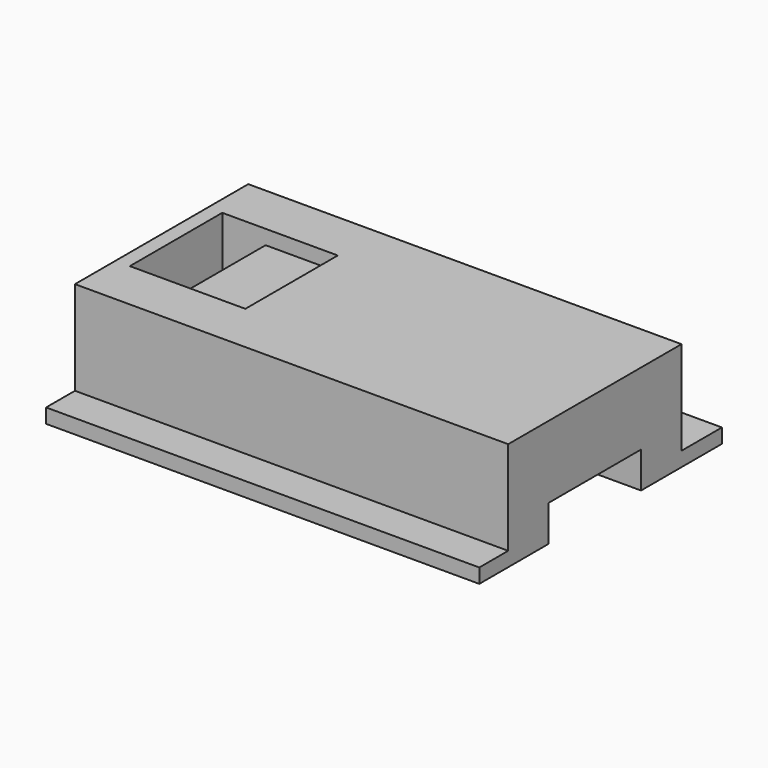
from build123d import *

# Parameters (mm, degrees)
BOX038_W                   = 3
BOX038_H                   = 8
BOX038_DEPTH               = 4
BOX037_W                   = 8
BOX037_H                   = 8
BOX037_DEPTH               = 2
CHAMFER001_SIZE            = 1
CHAMFER001_PLACEMENT_ANGLE = 180
BOX004_W                   = 30
BOX004_H                   = 8
BOX004_DEPTH               = 2.5
BOX003_W                   = 30
BOX003_H                   = 15
BOX003_DEPTH               = 7.5
BOX002_W                   = 30
BOX002_H                   = 21
BOX002_DEPTH               = 1


with BuildPart() as cubo038:
    # Box038 → Box038 (new body)
    with BuildSketch(Plane(origin=(-13, -15, 2.5), x_dir=(1, 0, 0), z_dir=(0, 0, 1))):
        with Locations((1.5, 4)):
            Rectangle(BOX038_W, BOX038_H)
    extrude(amount=BOX038_DEPTH)


with BuildPart() as fusion002023:
    # Box037 → Box037 (new body)
    with BuildSketch(Plane(origin=(-13, -15, 6), x_dir=(1, 0, 0), z_dir=(0, 0, 1))):
        with Locations((4, 4)):
            Rectangle(BOX037_W, BOX037_H)
    extrude(amount=BOX037_DEPTH)

    # Chamfer001
    chamfer001_edges = [fusion002023.edges().sort_by_distance(p)[0] for p in [
        (-13, -11, 8),
    ]]
    chamfer(chamfer001_edges, length=CHAMFER001_SIZE)


with BuildPart() as fusion002023_1:
    # Chamfer001 placement: moved
    add(fusion002023.part.moved(Location((-18, -22, 0.5))).rotate(Axis((-18, -22, 0.5), (0, 0, 1)), CHAMFER001_PLACEMENT_ANGLE))

    # Fusion002023: union Cubo038
    add(cubo038.part)


with BuildPart() as cubo004:
    # Box004 → Box004 (new body)
    with BuildSketch(Plane(origin=(-14, -15, 0), x_dir=(1, 0, 0), z_dir=(0, 0, 1))):
        with Locations((15, 4)):
            Rectangle(BOX004_W, BOX004_H)
    extrude(amount=BOX004_DEPTH)


with BuildPart() as cubo003:
    # Box003 → Box003 (new body)
    with BuildSketch(Plane(origin=(-14, -18.5, 0), x_dir=(1, 0, 0), z_dir=(0, 0, 1))):
        with Locations((15, 7.5)):
            Rectangle(BOX003_W, BOX003_H)
    extrude(amount=BOX003_DEPTH)


with BuildPart() as cut059:
    # Box002 → Box002 (new body)
    with BuildSketch(Plane(origin=(-14, -21, 0), x_dir=(1, 0, 0), z_dir=(0, 0, 1))):
        with Locations((15, 10.5)):
            Rectangle(BOX002_W, BOX002_H)
    extrude(amount=BOX002_DEPTH)

    # Fusion001: union Cubo003
    add(cubo003.part)

    # Cut006: cut Cubo004
    add(cubo004.part, mode=Mode.SUBTRACT)

    # Cut059: cut Fusion002023
    add(fusion002023_1.part, mode=Mode.SUBTRACT)


solid = cut059.part
